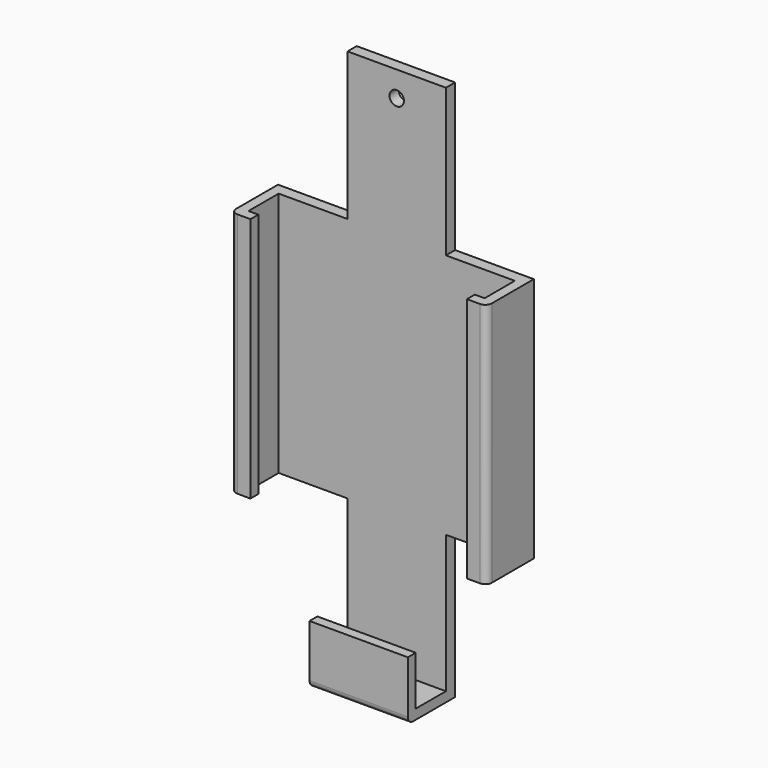
from build123d import *

# Parameters (mm, degrees)
F1_DEPTH  = 3.5
F2_W      = 30
F2_H      = 3
F3_DEPTH  = 14.5
F4_W      = 30
F4_H      = 3
F5_DEPTH  = 15
F6_W      = 3
F6_H      = 75
F7_DEPTH  = 14.5
F8_W      = 3
F8_H      = 75
F9_DEPTH  = 14.5
F10_W     = 3
F10_H     = 75
F11_DEPTH = 3
F12_W     = 3
F12_H     = 75
F13_DEPTH = 3
F14_R     = 2
F15_R     = 2
F16_R     = 2
F18_D     = 4.4


with BuildPart() as f1:
    # F0 (on Front) → F1 (new body)
    with BuildSketch(Plane.XZ):
        Polygon((15, 82.5), (-15, 82.5), (-15, 37.5), (-39, 37.5), (-39, -37.5), (-15, -37.5), (-15, -82.5), (15, -82.5), (15, -37.5), (39, -37.5), (39, 37.5), (15, 37.5), align=None)
    extrude(amount=F1_DEPTH)

    # F2 (on face) → F3 (join)
    with BuildSketch(Plane.XZ.offset(3.5)):
        with Locations((0, -81)):
            Rectangle(F2_W, F2_H)
    extrude(amount=F3_DEPTH)

    # F4 (on face) → F5 (join)
    with BuildSketch(Plane.XY.offset(-79.5)):
        with Locations((0, -16.5)):
            Rectangle(F4_W, F4_H)
    extrude(amount=F5_DEPTH)

    # F6 (on face) → F7 (join)
    with BuildSketch(Plane.XZ.offset(3.5)):
        with Locations((-37.5, 0)):
            Rectangle(F6_W, F6_H)
    extrude(amount=F7_DEPTH)

    # F8 (on face) → F9 (join)
    with BuildSketch(Plane.XZ.offset(3.5)):
        with Locations((37.5, 0)):
            Rectangle(F8_W, F8_H)
    extrude(amount=F9_DEPTH)

    # F10 (on face) → F11 (join)
    with BuildSketch(Plane.YZ.offset(-36)):
        with Locations((-16.5, 0)):
            Rectangle(F10_W, F10_H)
    extrude(amount=F11_DEPTH)

    # F12 (on face) → F13 (join)
    with BuildSketch(Plane(origin=(36, 0, 0), x_dir=(0, -1, 0), z_dir=(-1, 0, 0))):
        with Locations((16.5, 0)):
            Rectangle(F12_W, F12_H)
    extrude(amount=F13_DEPTH)

    # F14
    f14_edges = [f1.edges().sort_by_distance(p)[0] for p in [
        (39, -18, 0),
    ]]
    fillet(f14_edges, radius=F14_R)

    # F15
    f15_edges = [f1.edges().sort_by_distance(p)[0] for p in [
        (-39, -18, 0),
    ]]
    fillet(f15_edges, radius=F15_R)

    # F16
    f16_edges = [f1.edges().sort_by_distance(p)[0] for p in [
        (0, -18, -82.5),
    ]]
    fillet(f16_edges, radius=F16_R)

    # F18 (through all)
    with Locations(Plane.XZ.offset(3.5)):
        with Locations((0, 74.796483)):
            Hole(F18_D / 2)


solid = f1.part
